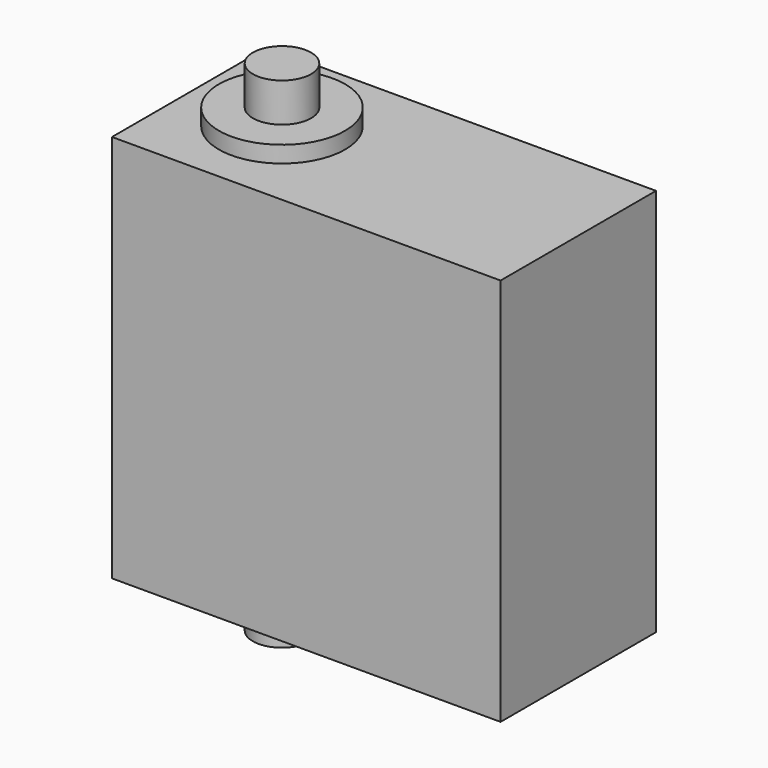
from build123d import *

# Parameters (mm, degrees)
F0_W     = 40
F0_H     = 20
F1_DEPTH = 40
F2_R     = 6.5
F3_DEPTH = 1.7
F4_R     = 3
F5_DEPTH = 4
F6_R     = 6.5
F7_DEPTH = 1.7
F8_R     = 3
F9_DEPTH = 4


with BuildPart() as f1:
    # F0 (on Top) → F1 (new body)
    with BuildSketch(Plane.XY):
        with Locations((20, 10)):
            Rectangle(F0_W, F0_H)
    extrude(amount=F1_DEPTH)

    # F2 (on face) → F3 (join)
    with BuildSketch(Plane.XY.offset(40)):
        with Locations((9.5, 10)):
            Circle(F2_R)
    extrude(amount=F3_DEPTH)

    # F4 (on face) → F5 (join)
    with BuildSketch(Plane.XY.offset(41.7)):
        with Locations((9.5, 10)):
            Circle(F4_R)
    extrude(amount=F5_DEPTH)

    # F6 (on face) → F7 (join)
    with BuildSketch(Plane(origin=(0, 0, 0), x_dir=(1, 0, 0), z_dir=(0, 0, -1))):
        with Locations((9.5, -10)):
            Circle(F6_R)
    extrude(amount=F7_DEPTH)

    # F8 (on face) → F9 (join)
    with BuildSketch(Plane(origin=(0, 0, -1.7), x_dir=(1, 0, 0), z_dir=(0, 0, -1))):
        with Locations((9.5, -10)):
            Circle(F8_R)
    extrude(amount=F9_DEPTH)


solid = f1.part
